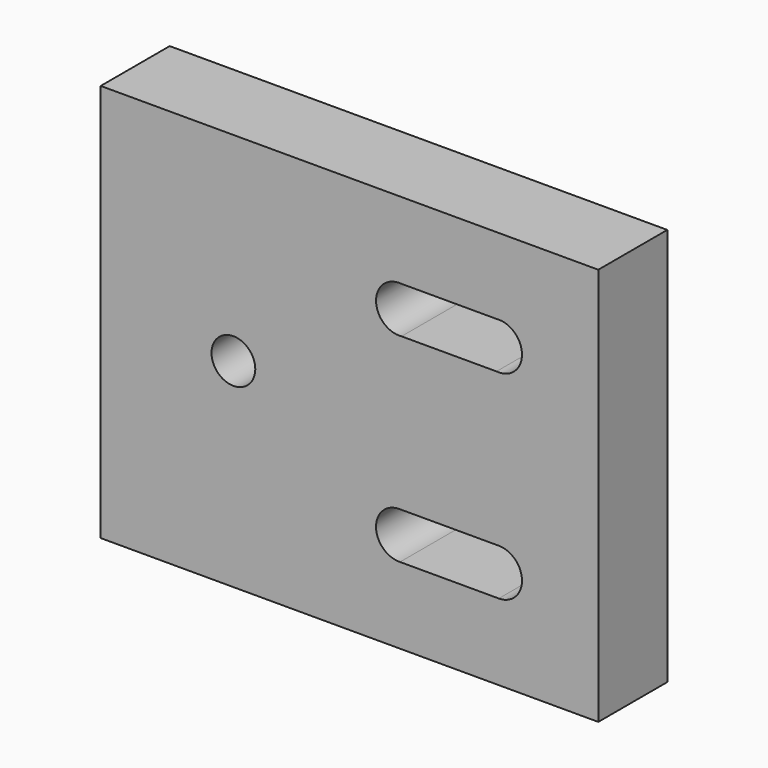
from build123d import *

# Parameters (mm, degrees)
F0_W           = 75
F0_H           = 60
F1_DEPTH       = 13
F3_D           = 6.6
F3_CSINK_D     = 13.44
F3_CSINK_ANGLE = 90
F5_D           = 7
F7_DEPTH       = 25
F9_DEPTH       = 25


with BuildPart() as f1:
    # F0 (on Front) → F1 (new body)
    with BuildSketch(Plane.XZ):
        with Locations((37.5, -30)):
            Rectangle(F0_W, F0_H)
        with Locations((37.5, -30)):
            Rectangle(F0_W, F0_H)
    extrude(amount=F1_DEPTH)

    # F3 (through all)
    with Locations(Plane(origin=(0, 0, 0), x_dir=(-1, 0, 0), z_dir=(0, 1, 0))):
        with Locations((-20, -30)):
            CounterSinkHole(F3_D / 2, F3_CSINK_D / 2, counter_sink_angle=F3_CSINK_ANGLE)

    # F5 (through all)
    with Locations(Plane(origin=(0, 0, 0), x_dir=(-1, 0, 0), z_dir=(0, 1, 0))):
        with Locations((-45, -45), (-60, -45), (-60, -15), (-45, -15)):
            Hole(F5_D / 2)

    # F6 (on face) → F7 (cut)
    with BuildSketch(Plane(origin=(0, 0, 0), x_dir=(-1, 0, 0), z_dir=(0, 1, 0))):
        Polygon((-59.9996023931, -48.4999999774), (-45.1088056195, -48.4983083536), (-45.0000000053, -41.5), (-59.9996023931, -41.5000000226), align=None)
    extrude(amount=-F7_DEPTH, mode=Mode.SUBTRACT)

    # F8 (on face) → F9 (cut)
    with BuildSketch(Plane(origin=(0, 0, 0), x_dir=(-1, 0, 0), z_dir=(0, 1, 0))):
        with BuildLine():
            Line((-45.3417231841, -11.5167220517), (-59.6582768159, -11.5167220517))
            ThreePointArc((-59.6582768159, -11.5167220517), (-57.4071221448, -12.64904606), (-56.5, -15))
            ThreePointArc((-56.5, -15), (-57.4071221448, -17.35095394), (-59.6582768159, -18.4832779483))
            Line((-59.6582768159, -18.4832779483), (-45.3417231841, -18.4832779483))
            ThreePointArc((-45.3417231841, -18.4832779483), (-48.5, -15), (-45.3417231841, -11.5167220517))
        make_face()
    extrude(amount=-F9_DEPTH, mode=Mode.SUBTRACT)


solid = f1.part
